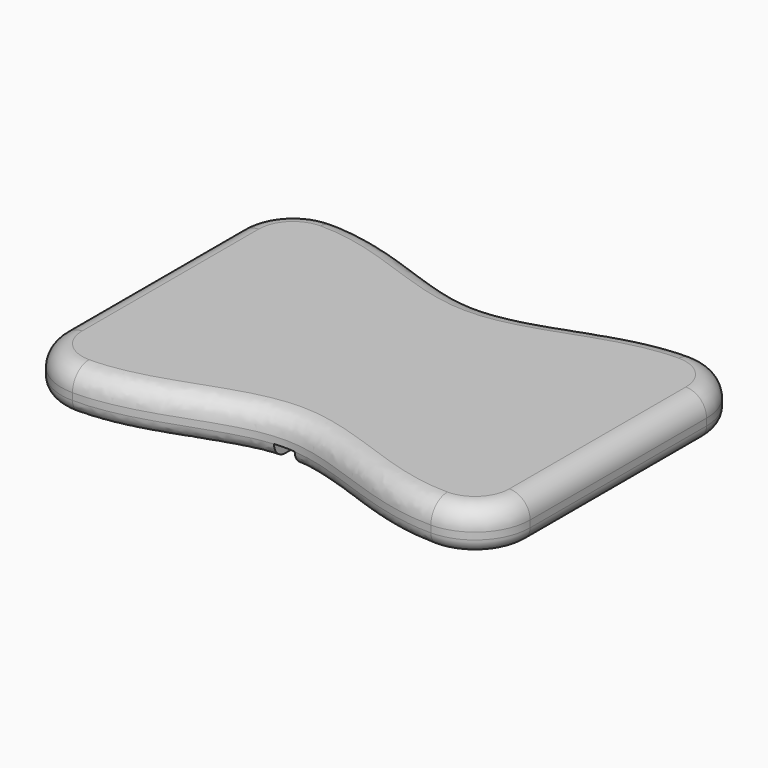
from build123d import *

# Parameters (mm, degrees)
F1_DEPTH = 38.1
F3_DEPTH = 12.7
F4_R     = 12.7
F5_R     = 19.05


with BuildPart() as f1:
    # F0 (on Top) → F1 (new body)
    with BuildSketch(Plane.XY):
        with BuildLine():
            ThreePointArc((-165.1, 152.4), (-201.021024, 137.521024), (-215.9, 101.6))
            Line((-215.9, 101.6), (-215.9, -101.6))
            ThreePointArc((-215.9, -101.6), (-201.021024, -137.521024), (-165.1, -152.4))
            add(Edge.make_bspline(
                [(-165.1, -152.4), (-101.6, -152.4), (0, -76.2), (101.6, -152.4), (165.1, -152.4)],
                knots=[0, 0, 0, 0, 169.439134, 338.878267, 338.878267, 338.878267, 338.878267], degree=3))
            ThreePointArc((165.1, -152.4), (201.021024, -137.521024), (215.9, -101.6))
            Line((215.9, -101.6), (215.9, 101.6))
            ThreePointArc((215.9, 101.6), (201.021024, 137.521024), (165.1, 152.4))
            add(Edge.make_bspline(
                [(-165.1, 152.4), (-101.6, 152.4), (0, 76.2), (101.6, 152.4), (165.1, 152.4)],
                knots=[0, 0, 0, 0, 169.439134, 338.878267, 338.878267, 338.878267, 338.878267], degree=3))
        make_face()
    extrude(amount=F1_DEPTH)

    # F2 (on face) → F3 (cut)
    with BuildSketch(Plane(origin=(0, 0, 0), x_dir=(1, 0, 0), z_dir=(0, 0, -1))):
        with BuildLine():
            ThreePointArc((-114.046, 9.525), (-117.348, 12.827), (-120.65, 9.525))
            Line((-120.65, 9.525), (-120.65, -9.525))
            ThreePointArc((-120.65, -9.525), (-117.348, -12.827), (-114.046, -9.525))
            Line((-114.046, -9.525), (-9.525, -9.525))
            Line((-9.525, -9.525), (-9.525, -114.727609))
            add(Edge.make_bspline(
                [(-9.525, -114.727609), (-6.347935, -114.448731), (0, -114.151269), (6.347935, -114.448731), (9.525, -114.727609)],
                knots=[158.852632, 158.852632, 158.852632, 158.852632, 169.439134, 180.025636, 180.025636, 180.025636, 180.025636], degree=3))
            Line((9.525, -114.727609), (9.525, -9.525))
            Line((9.525, -9.525), (114.046, -9.525))
            ThreePointArc((114.046, -9.525), (117.348, -12.827), (120.65, -9.525))
            Line((120.65, -9.525), (120.65, 9.525))
            ThreePointArc((120.65, 9.525), (117.348, 12.827), (114.046, 9.525))
            Line((114.046, 9.525), (9.525, 9.525))
            Line((9.525, 9.525), (9.525, 114.727609))
            add(Edge.make_bspline(
                [(-9.525, 114.727609), (-6.347935, 114.448731), (0, 114.151269), (6.347935, 114.448731), (9.525, 114.727609)],
                knots=[158.852632, 158.852632, 158.852632, 158.852632, 169.439134, 180.025636, 180.025636, 180.025636, 180.025636], degree=3))
            Line((-9.525, 114.727609), (-9.525, 9.525))
            Line((-9.525, 9.525), (-114.046, 9.525))
        make_face()
    extrude(amount=-F3_DEPTH, mode=Mode.SUBTRACT)

    # F4
    f4_edges = [f1.edges().sort_by_distance(p)[0] for p in [
        (-201.021024, -137.521024, 0),
        (-86.699653, -136.462181, 0),
        (86.699653, -136.462181, 0),
    ]]
    fillet(f4_edges, radius=F4_R)

    # F5
    f5_edges = [f1.edges().sort_by_distance(p)[0] for p in [
        (0, 114.3, 38.1),
    ]]
    fillet(f5_edges, radius=F5_R)


solid = f1.part
